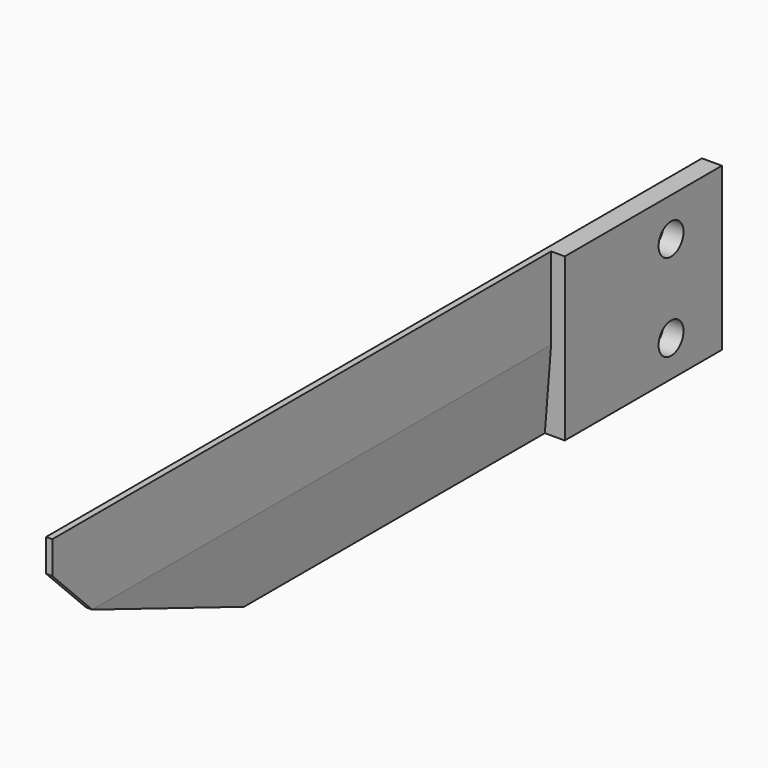
from build123d import *

# Parameters (mm, degrees)
F1_DEPTH = 31.5
F2_DEPTH = 131.5
F6_DEPTH = 25
F7_D     = 5
F7_DEPTH = 300
F7_START = 6.4609628
F7_TIP   = 1.5021515476


with BuildPart() as f1:
    # F0 (on Front) → F1 (new body)
    with BuildSketch(Plane.XZ):
        Polygon((-8.6609627543, 11.8473982275), (-9.6609627543, 11.8473982275), (-9.6609627543, -14.1526017725), (-8.6609627543, -1.3526017725), align=None)
        Polygon((-6.4609627543, 11.8473982275), (-8.6609627543, 11.8473982275), (-8.6609627543, -1.3526017725), (-9.6609627543, -14.1526017725), (-8.6609627543, -14.1526017725), (-6.4609627543, -14.1526017725), align=None)
    extrude(amount=F1_DEPTH)

    # F0 (on Front) → F2 (join)
    with BuildSketch(Plane.XZ):
        Polygon((-8.6609627543, 11.8473982275), (-9.6609627543, 11.8473982275), (-9.6609627543, -14.1526017725), (-8.6609627543, -1.3526017725), align=None)
    extrude(amount=F2_DEPTH)

    # F5 (on Right) → F6 (cut)
    with BuildSketch(Plane.YZ):
        Polygon((-123.5, -1.3526017725), (-131.5, -1.3526017725), (-131.5, -14.1526017725), (-123.5, -14.1526017725), (-91.8188882763, -14.1526017725), align=None)
        Polygon((-123.5, -1.3526017725), (-131.5, 6.6473982275), (-131.5, -1.3526017725), align=None)
        Polygon((-123.5, -1.3526017725), (-131.5, -1.3526017725), (-131.5, -14.1526017725), (-123.5, -14.1526017725), (-91.8188882763, -14.1526017725), align=None)
    extrude(amount=-F6_DEPTH, mode=Mode.SUBTRACT)

    # F7
    # its depths count from where the whole tool has entered the part; down to there all is cleared
    with Locations(Plane.YZ.offset(-F7_START)):
        with Locations((-10.2, 5.6473982275), (-10.2, -8.3526017725)):
            Hole(F7_D / 2, depth=F7_DEPTH)
            with Locations((0, 0, -(F7_DEPTH + F7_TIP / 2))):  # 118° drill point
                Cone(0, F7_D / 2, F7_TIP, mode=Mode.SUBTRACT)


solid = f1.part
